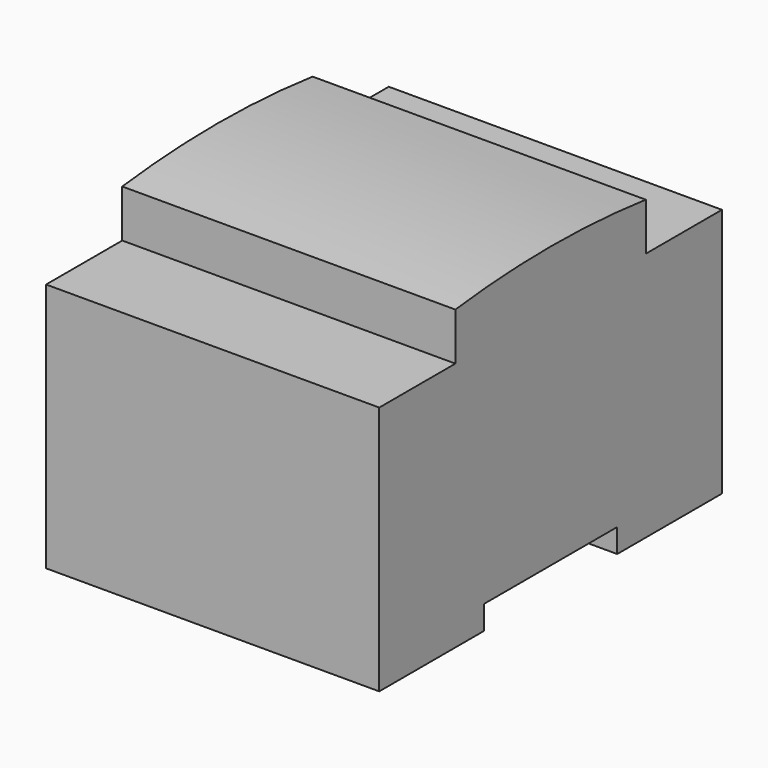
from build123d import *

# Parameters (mm, degrees)
F1_DEPTH = 35


with BuildPart() as f1:
    # F0 (on Right) → F1 (new body, symmetric)
    with BuildSketch(Plane.YZ):
        with BuildLine():
            Line((-17.5, -5), (-17.5, 0))
            Line((-17.5, 0), (0, 0))
            Line((0, 0), (17.5, 0))
            Line((17.5, 0), (17.5, -5))
            Line((17.5, -5), (45, -5))
            Line((45, -5), (45, 47.5))
            Line((45, 47.5), (25, 47.5))
            Line((25, 47.5), (25, 57.5))
            ThreePointArc((25, 57.5), (12.5224797864, 58.6246631061), (0, 59))
            ThreePointArc((0, 59), (-12.5224797864, 58.6246631061), (-25, 57.5))
            Line((-25, 57.5), (-25, 47.5))
            Line((-25, 47.5), (-45, 47.5))
            Line((-45, 47.5), (-45, -5))
            Line((-45, -5), (-17.5, -5))
        make_face()
    extrude(amount=F1_DEPTH, both=True)


solid = f1.part
